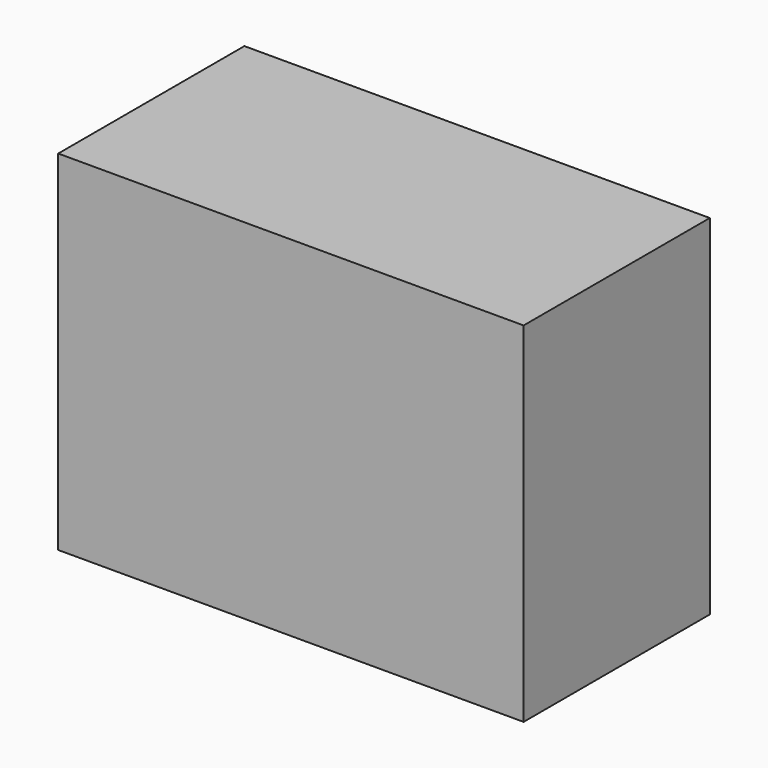
from build123d import *

# Parameters (mm, degrees)
F0_W     = 50.8
F0_H     = 38.1
F1_DEPTH = 6.35
F2_W     = 50.8
F2_H     = 38.1
F3_DEPTH = 12.7


with BuildPart() as f1:
    # F0 (on Front) → F1 (new body, symmetric)
    with BuildSketch(Plane.XZ):
        Rectangle(F0_W, F0_H)
    extrude(amount=F1_DEPTH, both=True)

    # F2 (on face) → F3 (join)
    with BuildSketch(Plane(origin=(0, 6.35, 0), x_dir=(-1, 0, 0), z_dir=(0, 1, 0))):
        Rectangle(F2_W, F2_H)
    extrude(amount=F3_DEPTH)


solid = f1.part
